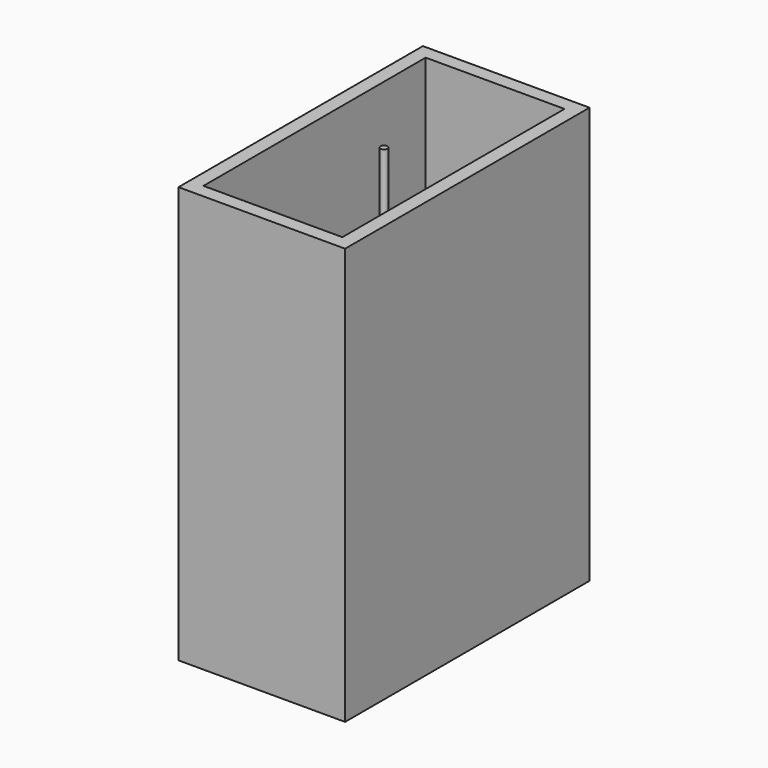
from build123d import *

# Parameters (mm, degrees)
F1_DEPTH      = 150
F1_DEPTH_BACK = 150


with BuildPart() as f1:
    # F0 (on Top) → F1 (new body, two sides)
    with BuildSketch(Plane.XY) as f1_sk:
        with BuildLine():
            Line((0, 0), (2.5, 0))
            ThreePointArc((2.5, 0), (0, 2.5), (-2.5, 0))
            Line((-2.5, 0), (0, 0))
        make_face()
        with BuildLine():
            ThreePointArc((-2.5, 0), (0, -2.5), (2.5, 0))
            Line((2.5, 0), (0, 0))
            Line((0, 0), (-2.5, 0))
        make_face()
        Polygon((50, 100), (50, 0), (60, 0), (60, 110), (-60, 110), (-60, 0), (-50, 0), (-50, 100), align=None)
        Polygon((60, 0), (50, 0), (50, -100), (-50, -100), (-50, 0), (-60, 0), (-60, -110), (60, -110), align=None)
    extrude(amount=F1_DEPTH)
    extrude(f1_sk.sketch, amount=-F1_DEPTH_BACK)

    # F0 (on Top) → F2 (revolve)
    with BuildSketch(Plane.XY):
        with BuildLine():
            Line((2.5, 0), (25, 0))
            ThreePointArc((25, 0), (0, 25), (-25, 0))
            Line((-25, 0), (-2.5, 0))
            ThreePointArc((-2.5, 0), (0, 2.5), (2.5, 0))
        make_face()
    revolve(axis=Axis((-33.854749, 0, 0), (-1, 0, 0)))


solid = f1.part
